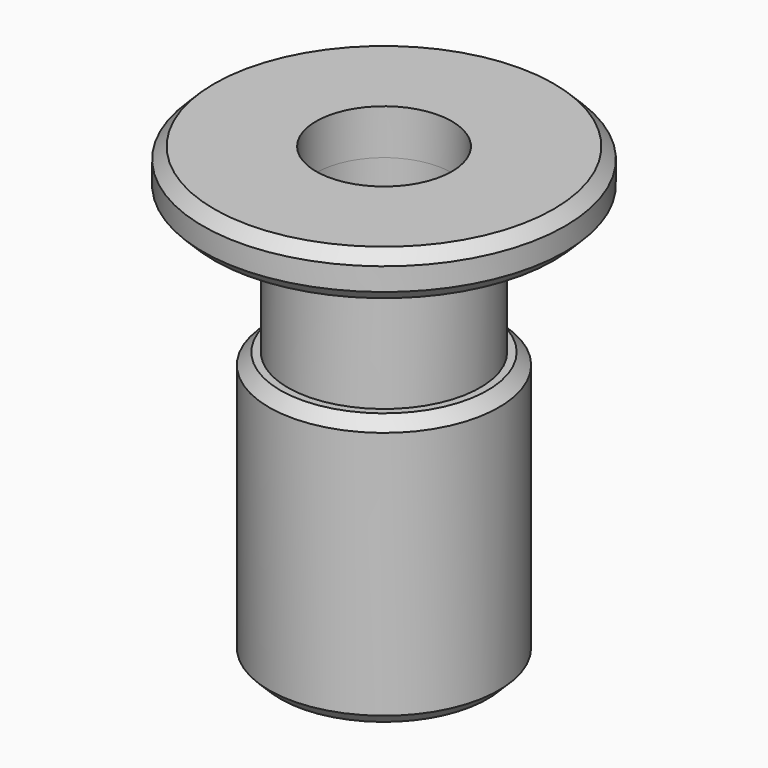
from build123d import *

# Parameters (mm, degrees)
F0_R     = 8
F0_R_2   = 3
F2_DEPTH = 2
F3_SIZE2 = 0.5
F3_SIZE  = 0.5
F1_W     = 0.8275934942
F1_H     = 12
F5_SIZE2 = 0.5
F5_SIZE  = 0.5


with BuildPart() as f2:
    # F0 (on Top) → F2 (new body)
    with BuildSketch(Plane.XY):
        Circle(F0_R)
        Circle(F0_R_2, mode=Mode.SUBTRACT)
    extrude(amount=F2_DEPTH)

    # F3
    f3_edges = [f2.edges().sort_by_distance(p)[0] for p in [
        (8, 0, 1),
        (-8, 0, 0),
        (-8, 0, 2),
    ]]
    chamfer(f3_edges, length=F3_SIZE, length2=F3_SIZE2)

    # F1 (on Front) → F4 (revolve)
    with BuildSketch(Plane.XZ):
        Polygon((-3, -18), (-3, 0), (-4.25, 0), (-4.25, -6), (-4.25, -18), align=None)
        with Locations((-4.6637967471, -12)):
            Rectangle(F1_W, F1_H)
    revolve(axis=Axis((0, 0, -9), (0, 0, -1)))

    # F5
    f5_edges = [f2.edges().sort_by_distance(p)[0] for p in [
        (5.077593, 0, -6),
        (5.077593, 0, -18),
    ]]
    chamfer(f5_edges, length=F5_SIZE, length2=F5_SIZE2)


solid = f2.part
